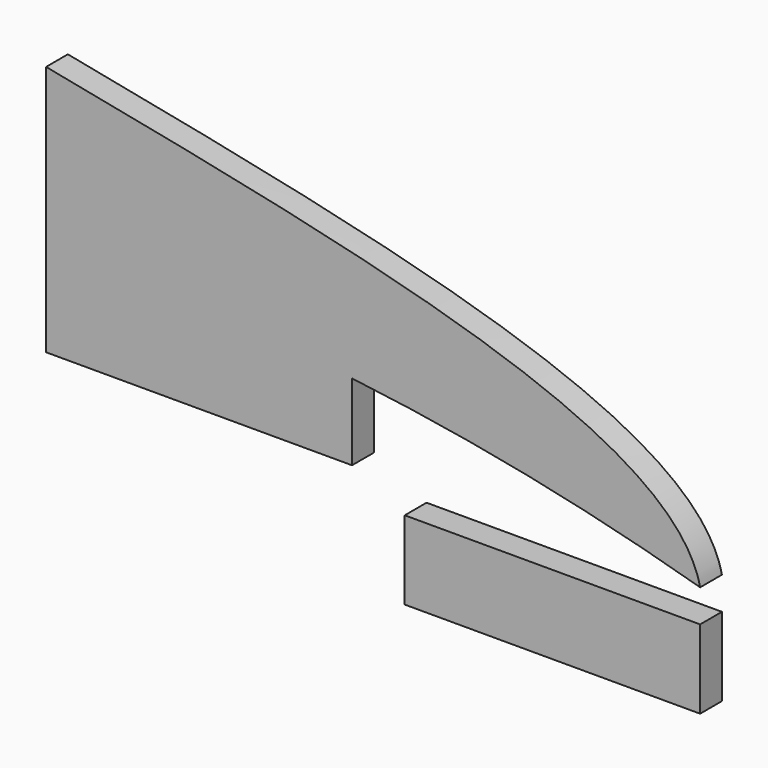
from build123d import *

# Parameters (mm, degrees)
F1_DEPTH = 25.4


with BuildPart() as f1:
    # F0 (on Front) → F1 (new body)
    with BuildSketch(Plane.XZ):
        with BuildLine():
            add(Edge.make_bspline(
                [(-285.1354957441, 277.9847405609), (7.5148349714, 221.254885076), (300.1651656868, 164.5250295911), (324.4645042559, 49.1612885236)],
                knots=[0, 0, 0, 0, 0.4940920161, 0.4940920161, 0.4940920161, 0.4940920161], degree=3))
            Line((-285.135495744, 277.9847405609), (-285.135495744, 129.6070333805))
            ThreePointArc((-285.1354957441, 129.6070333805), (-142.316578815, 127.317712108), (0, 115.1326631117))
            ThreePointArc((0, 115.1326631117), (163.560429946, 88.6793022998), (324.464504256, 49.1612885236))
        make_face()
        with BuildLine():
            ThreePointArc((0, 115.1326631117), (-142.316578815, 127.317712108), (-285.1354957441, 129.6070333805))
            Line((-285.135495744, 129.6070333805), (-285.135495744, 43.7982388665))
            Line((-285.135495744, 43.7982388665), (0, 43.7982388665))
            Line((0, 43.7982388665), (0, 115.1326631117))
        make_face()
    extrude(amount=F1_DEPTH)


with BuildPart() as f1b:
    # F0 (on Front) → F1, piece 2 (new body)
    with BuildSketch(Plane.XZ):
        with BuildLine():
            Line((324.464504256, -54.5243381808), (324.464504256, 15.352347539))
            add(Edge.make_bspline(
                [(324.464504256, 15.352347539), (320.3875616329, -6.4403839928), (308.9938478317, -29.8318080454), (291.6453332408, -54.5243381807)],
                knots=[0.540235223, 0.540235223, 0.540235223, 0.540235223, 0.6258175102, 0.6258175102, 0.6258175102, 0.6258175102], degree=3))
            Line((291.6453332408, -54.5243381808), (324.4645042559, -54.5243381808))
        make_face()
        with BuildLine():
            add(Edge.make_bspline(
                [(324.464504256, 15.352347539), (320.3875616329, -6.4403839928), (308.9938478317, -29.8318080454), (291.6453332408, -54.5243381807)],
                knots=[0.540235223, 0.540235223, 0.540235223, 0.540235223, 0.6258175102, 0.6258175102, 0.6258175102, 0.6258175102], degree=3))
            Line((324.464504256, 15.352347539), (324.464504256, 18.7706751941))
            Line((324.464504256, 18.7706751941), (49.1612996771, 18.7706751941))
            Line((49.1612996771, 18.7706751941), (49.1612996771, -54.5243381808))
            Line((49.1612996771, -54.5243381808), (291.6453332408, -54.5243381808))
        make_face()
    extrude(amount=F1_DEPTH)


solid = Compound([f1.part, f1b.part])
